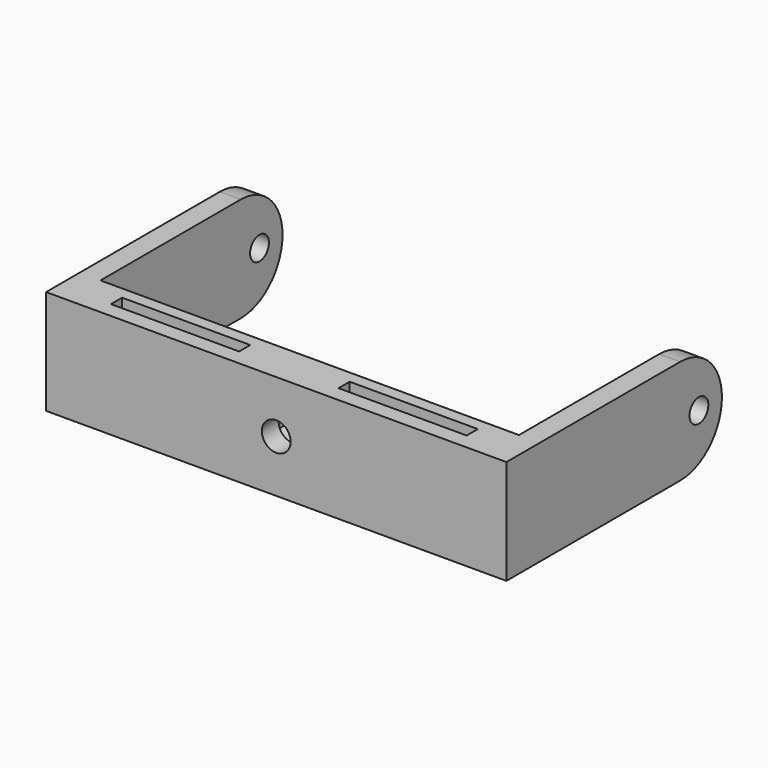
from build123d import *

# Parameters (mm, degrees)
SKETCH005_W             = 80
SKETCH005_H             = 20
SKETCH005_R             = 2.75
PAD010_DEPTH            = 8
POCKET009_DEPTH         = 4
SKETCH011_W             = 24.5
SKETCH011_H             = 2.666667
POCKET010_DEPTH         = 185.699521
SKETCH017_R             = 2.25
PAD011_DEPTH            = 4
BODY002_PLACEMENT_ANGLE = 180


with BuildPart() as part:
    # Sketch005 → Pad010 (new body)
    with BuildSketch(Plane.XZ):
        Rectangle(SKETCH005_W, SKETCH005_H)
        Circle(SKETCH005_R, mode=Mode.SUBTRACT)
    extrude(amount=PAD010_DEPTH)

    # Sketch007 → Pocket009 (cut)
    with BuildSketch(Plane.XZ.offset(8)):
        Polygon((4.113621, 2.375), (0, 4.75), (-4.113621, 2.375), (-4.113621, -2.375), (0, -4.75), (4.113621, -2.375), align=None)
    extrude(amount=-POCKET009_DEPTH, mode=Mode.SUBTRACT)

    # Sketch011 → Pocket010 (cut, through all)
    with BuildSketch(Plane(origin=(0, 0, 10), x_dir=(-1, 0, 0), z_dir=(0, 0, 1))):
        with Locations((-21.75, 4.333334)):
            Rectangle(SKETCH011_W, SKETCH011_H)
    pocket010 = extrude(amount=-POCKET010_DEPTH, mode=Mode.SUBTRACT)

    # Sketch017 (on Face4 of Pad010) → Pad011 (join)
    with BuildSketch(Plane(origin=(-40, 0, 0), x_dir=(0, 0, -1), z_dir=(-1, 0, 0))):
        with BuildLine():
            Line((-10, 0), (10, 0))
            Line((10, 0), (10, 41.5))
            ThreePointArc((10, 41.5), (0, 51.5), (-10, 41.5))
            Line((-10, 41.5), (-10, 0))
        make_face()
        with Locations((0, 46)):
            Circle(SKETCH017_R, mode=Mode.SUBTRACT)
    pad011 = extrude(amount=PAD011_DEPTH)

    # Mirrored007: Pad011 across YZ
    add(pad011.mirror(Plane.YZ))

    # Mirrored008: Pocket010 across YZ
    add(pocket010.mirror(Plane.YZ), mode=Mode.SUBTRACT)


with BuildPart() as part_1:
    # Body002 placement: moved
    add(part.part.moved(Location((0, 2, 9))).rotate(Axis((0, 2, 9), (1, 0, 0)), BODY002_PLACEMENT_ANGLE))


solid = part_1.part
